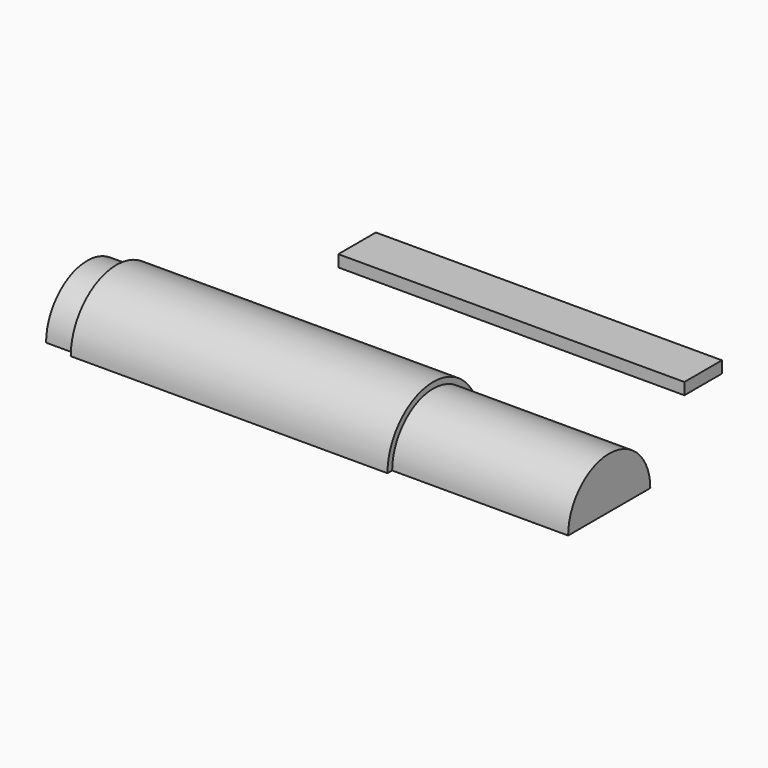
from build123d import *

# Parameters (mm, degrees)
F0_W     = 5
F0_H     = 8.75
F0_W_2   = 30
F1_ANGLE = 180
F2_W     = 60
F2_H     = 2.2
F3_DEPTH = 5
F2_W_2   = 59
F2_H_2   = 8
F4_DEPTH = 2


with BuildPart() as f1:
    # F0 (on Top) → F1 (revolve)
    with BuildSketch(Plane.XY):
        with Locations((-39.26535, 4.375)):
            Rectangle(F0_W, F0_H)
        Polygon((-36.76535, 8.75), (-36.76535, 0), (17.23465, 0), (17.23465, 8.75), (17.23465, 9.75), (-36.76535, 9.75), align=None)
        with Locations((32.23465, 4.375)):
            Rectangle(F0_W_2, F0_H)
    revolve(axis=Axis((-9.76535, 0, 0), (1, 0, 0)), revolution_arc=F1_ANGLE)

    # F2 (on face) → F3 (cut)
    with BuildSketch(Plane(origin=(0, 0, 0), x_dir=(1, 0, 0), z_dir=(0, 0, -1))):
        Rectangle(F2_W, F2_H)
    extrude(amount=-F3_DEPTH, mode=Mode.SUBTRACT)


with BuildPart() as f4:
    # F2 (on face) → F4 (new body)
    with BuildSketch(Plane(origin=(0, 0, 0), x_dir=(1, 0, 0), z_dir=(0, 0, -1))):
        with Locations((2.160374, -39.485849)):
            Rectangle(F2_W_2, F2_H_2)
    extrude(amount=F4_DEPTH)


solid = Compound([f1.part, f4.part])
